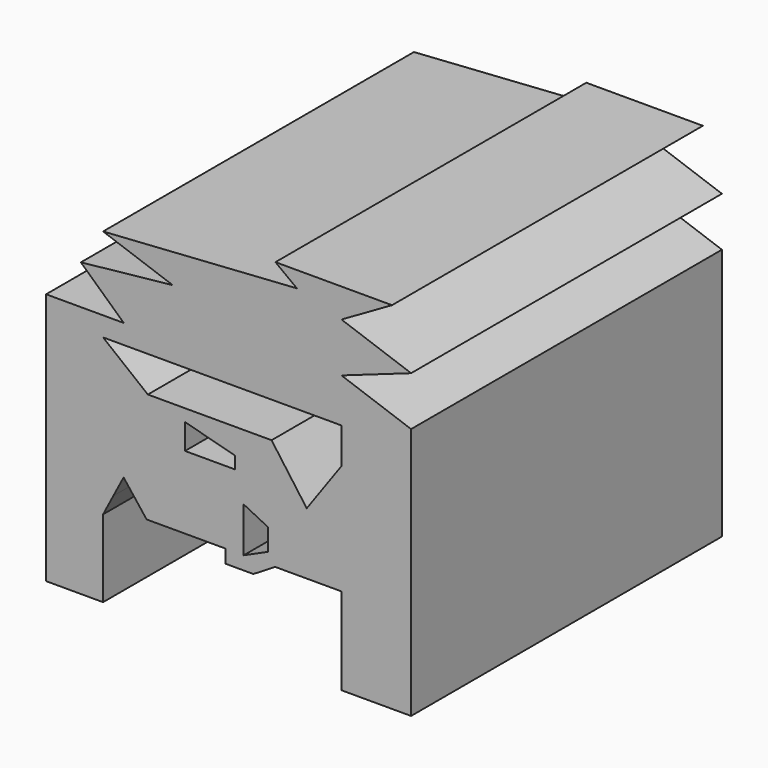
from build123d import *

# Parameters (mm, degrees)
F0_W     = 25.4
F0_H     = 25.4
F2_DEPTH = 25.4
F3_DEPTH = 25.4


with BuildPart() as f2:
    # F0 (on Front) → F2 (new body)
    with BuildSketch(Plane.XZ):
        with Locations((12.7, 12.7)):
            Rectangle(F0_W, F0_H)
    extrude(amount=-F2_DEPTH)

    # F1 (on face) → F3 (cut)
    with BuildSketch(Plane.XZ):
        Polygon((0, 25.4), (0, 16.51), (5.08, 16.51), (2.274592, 19.087943), (8.275861, 19.728145), (3.726008, 21.337217), (16.39788, 22.182008), (14.994388, 23.235855), (22.614388, 23.235855), (19.311167, 21.337217), (23.86102, 19.728145), (19.311167, 18.119072), (23.86102, 16.51), (23.86102, 0), (25.4, 0), (25.4, 25.4), align=None)
        Polygon((9.083407, 15.24), (3.726008, 15.24), (6.652538, 12.90414), (9.083407, 12.90414), (12.361358, 12.90414), (14.740032, 12.90414), (16.960129, 11.318357), (19.311167, 12.90414), (19.311167, 15.24), align=None)
        Polygon((3.726008, 5.054513), (3.726008, 0), (19.311167, 0), (19.311167, 5.688827), (14.977898, 5.688827), (13.550695, 4.816646), (11.727044, 4.816646), (11.727044, 5.688827), (9.189791, 5.688827), (6.573249, 5.688827), (6.067413, 6.337257), (4.396382, 6.337257), align=None)
        Polygon((12.916381, 8.622526), (12.916381, 5.688827), (14.502165, 6.402429), (14.502165, 7.829634), align=None)
        Polygon((12.361358, 11.239068), (9.083407, 12.111248), (9.083407, 10.446176), (12.361358, 10.446176), align=None)
        Polygon((17.039418, 9.732574), (19.311167, 12.90414), (16.960129, 11.318357), (14.740032, 12.90414), align=None)
        Polygon((5.066755, 7.62), (4.396382, 6.337257), (6.067413, 6.337257), align=None)
    extrude(amount=-F3_DEPTH, mode=Mode.SUBTRACT)


solid = f2.part
